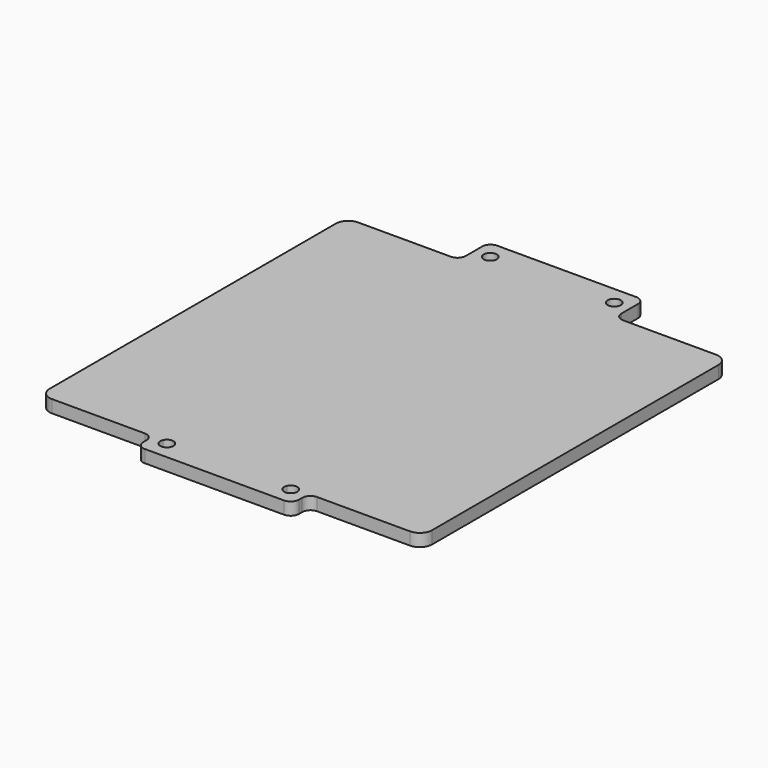
from build123d import *

# Parameters (mm, degrees)
F0_W     = 37.75
F0_H     = 9
F0_R     = 1.6
F1_DEPTH = 3.05
F2_R     = 2
F3_R     = 3


with BuildPart() as f1:
    # F0 (on Top) → F1 (new body)
    with BuildSketch(Plane.XY):
        with BuildLine():
            Line((-18.875, 46.375), (-46.375, 46.375))
            Line((-46.375, 46.375), (-46.375, -46.375))
            Line((-46.375, -46.375), (-18.875, -46.375))
            Line((-18.875, -46.375), (-16.487019, -46.375))
            ThreePointArc((-16.487019, -46.375), (-15.025, -45.425), (-13.562981, -46.375))
            Line((-13.562981, -46.375), (13.562981, -46.375))
            ThreePointArc((13.562981, -46.375), (15.025, -45.425), (16.487019, -46.375))
            Line((16.487019, -46.375), (18.875, -46.375))
            Line((18.875, -46.375), (46.375, -46.375))
            Line((46.375, -46.375), (46.375, 46.375))
            Line((46.375, 46.375), (18.875, 46.375))
            Line((18.875, 46.375), (-18.875, 46.375))
        make_face()
        with BuildLine():
            Line((-16.487019, -46.375), (-18.875, -46.375))
            Line((-18.875, -46.375), (-18.875, -51.375))
            Line((-18.875, -51.375), (18.875, -51.375))
            Line((18.875, -51.375), (18.875, -46.375))
            Line((18.875, -46.375), (16.487019, -46.375))
            ThreePointArc((16.487019, -46.375), (16.590125, -46.692758), (16.625, -47.025))
            ThreePointArc((16.625, -47.025), (14.692758, -48.590125), (13.562981, -46.375))
            Line((13.562981, -46.375), (-13.562981, -46.375))
            ThreePointArc((-13.562981, -46.375), (-13.459875, -46.692758), (-13.425, -47.025))
            ThreePointArc((-13.425, -47.025), (-15.357242, -48.590125), (-16.487019, -46.375))
        make_face()
        with Locations((0, 50.875)):
            Rectangle(F0_W, F0_H)
        with Locations((-15.025, 50.975)):
            Circle(F0_R, mode=Mode.SUBTRACT)
        with Locations((15.025, 50.975)):
            Circle(F0_R, mode=Mode.SUBTRACT)
    extrude(amount=F1_DEPTH)

    # F2
    f2_edges = [f1.edges().sort_by_distance(p)[0] for p in [
        (18.875, 46.375, 1.525),
        (-18.875, 46.375, 1.525),
        (-18.875, -46.375, 1.525),
        (18.875, -46.375, 1.525),
        (-18.875, 55.375, 1.525),
        (18.875, 55.375, 1.525),
        (18.875, -51.375, 1.525),
        (-18.875, -51.375, 1.525),
    ]]
    fillet(f2_edges, radius=F2_R)

    # F3
    f3_edges = [f1.edges().sort_by_distance(p)[0] for p in [
        (-46.375, -46.375, 1.525),
        (46.375, -46.375, 1.525),
        (46.375, 46.375, 1.525),
        (-46.375, 46.375, 1.525),
    ]]
    fillet(f3_edges, radius=F3_R)


solid = f1.part
